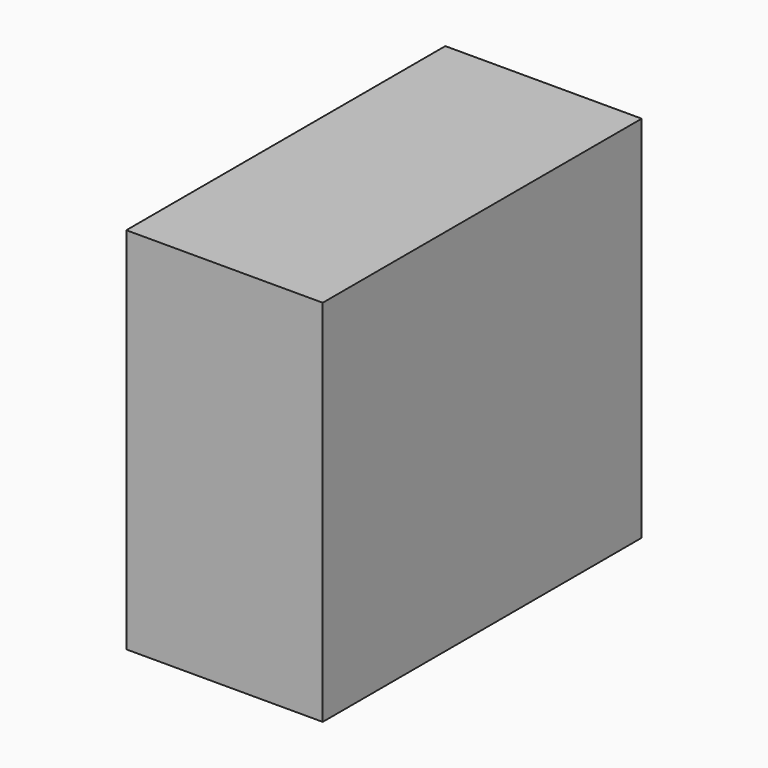
from build123d import *

# Parameters (mm, degrees)
F0_W     = 51.561747
F0_H     = 47.722045
F1_DEPTH = 25.4
F2_R     = 8.425321
F3_DEPTH = 25.4
F4_R     = 6.442108
F5_DEPTH = 25.4


with BuildPart() as f1:
    # F0 (on Right) → F1 (new body)
    with BuildSketch(Plane.YZ):
        with Locations((-25.780873, 23.861023)):
            Rectangle(F0_W, F0_H)
        with Locations((-25.780873, 23.861023)):
            Rectangle(F0_W, F0_H)
    extrude(amount=F1_DEPTH)

    # F2 (on face) → F3 (join)
    with BuildSketch(Plane.YZ.offset(25.4)):
        with Locations((-22.977702, 24.120137)):
            Circle(F2_R)
    extrude(amount=-F3_DEPTH)

    # F4 (on face) → F5 (cut)
    with BuildSketch(Plane.YZ.offset(25.4)):
        with Locations((-25.679082, 25.233068)):
            Circle(F4_R)
    extrude(amount=F5_DEPTH, mode=Mode.SUBTRACT)


solid = f1.part
